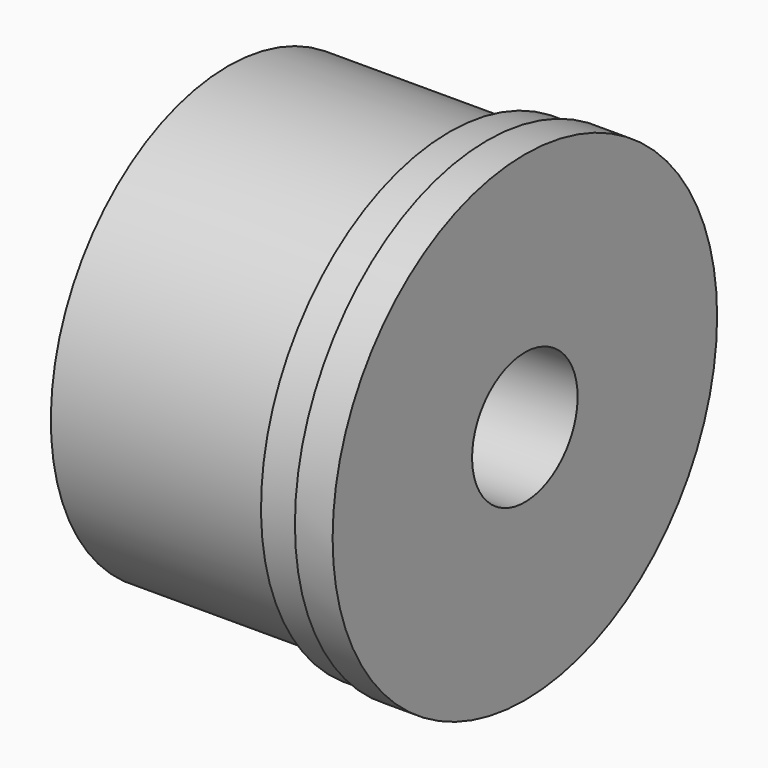
from build123d import *

# Parameters (mm, degrees)
F2_W = 5.5
F2_H = 6.5


with BuildPart() as f1:
    # F0 (on Front) → F1 (revolve)
    with BuildSketch(Plane.XZ):
        Polygon((0, 23.5), (0, 7), (18.5, 7), (18.5, 13.5), (27.5, 13.5), (27.5, 25), (23.5, 25), (23.5, 23.5), align=None)
    revolve(axis=Axis((13.75, 0, 0), (1, 0, 0)))


with BuildPart() as f3:
    # F2 (on Front) → F3 (revolve)
    with BuildSketch(Plane.XZ):
        Polygon((27.5, 13.5), (27.5, 7), (31.5, 7), (31.5, 25.5), (27.5, 25.5), align=None)
        with Locations((24.75, 10.25)):
            Rectangle(F2_W, F2_H)
    revolve(axis=Axis((26.75, 0, 0), (1, 0, 0)))


solid = Compound([f1.part, f3.part])
